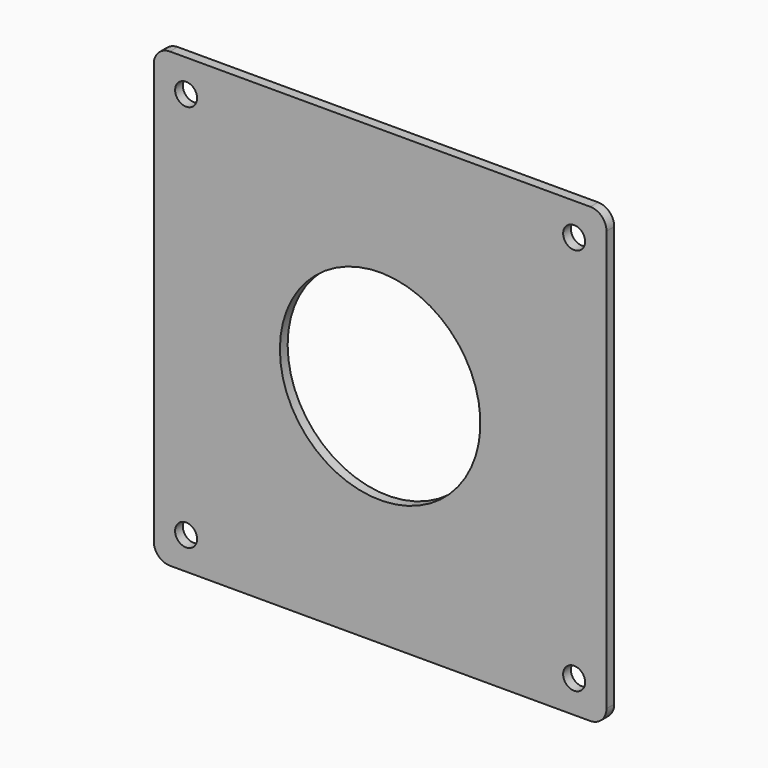
from build123d import *

# Parameters (mm, degrees)
F0_W     = 140
F0_H     = 140
F1_DEPTH = 3
F3_D     = 6.8
F3_DEPTH = 10
F4_R     = 5
F6_D     = 62
F6_DEPTH = 10


with BuildPart() as f1:
    # F0 (on Front) → F1 (new body)
    with BuildSketch(Plane.XZ):
        with Locations((-1706.19823, -1509.163168)):
            Rectangle(F0_W, F0_H)
    extrude(amount=F1_DEPTH)

    # F3
    with Locations(Plane.XZ.offset(3)):
        with Locations((-1766.19823, -1449.163168), (-1646.19823, -1449.163168), (-1646.19823, -1569.163168), (-1766.19823, -1569.163168)):
            Hole(F3_D / 2, depth=F3_DEPTH)

    # F4
    f4_edges = [f1.edges().sort_by_distance(p)[0] for p in [
        (-1636.19823, -1.5, -1439.163168),
        (-1636.19823, -1.5, -1579.163168),
        (-1776.19823, -1.5, -1439.163168),
        (-1776.19823, -1.5, -1579.163168),
    ]]
    fillet(f4_edges, radius=F4_R)

    # F6
    with Locations(Plane.XZ.offset(3)):
        with Locations((-1706.19823, -1509.163168)):
            Hole(F6_D / 2, depth=F6_DEPTH)


solid = f1.part
